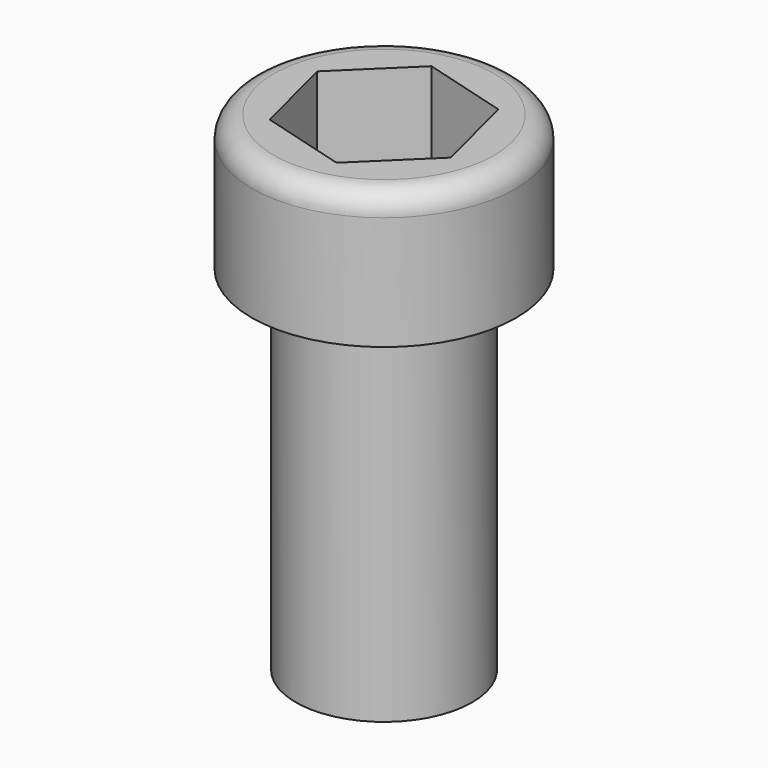
from build123d import *

# Parameters (mm, degrees)
F0_R      = 6.35
F1_DEPTH  = 25.4
F2_R      = 9.525
F3_DEPTH  = 9.8425
F4_R      = 1.5875
F6_DEPTH  = 6.35
F8_R      = 9.525
F9_DEPTH  = 9.779
F10_R     = 1.5875
F12_DEPTH = 6.35


with BuildPart() as f1:
    # F0 (on Top) → F1 (new body)
    with BuildSketch(Plane.XY):
        Circle(F0_R)
    extrude(amount=F1_DEPTH)

    # F8 (on face) → F9 (join)
    with BuildSketch(Plane.XY.offset(25.4)):
        Circle(F8_R)
    extrude(amount=F9_DEPTH)

    # F10
    f10_edges = [f1.edges().sort_by_distance(p)[0] for p in [
        (-9.525, 0, 35.179),
    ]]
    fillet(f10_edges, radius=F10_R)

    # F11 (on face) → F12 (cut)
    with BuildSketch(Plane.XY.offset(35.179)):
        Polygon((1.58678, -6.254315), (6.209785, -1.752966), (4.623006, 4.501349), (-1.58678, 6.254315), (-6.209785, 1.752966), (-4.623006, -4.501349), align=None)
    extrude(amount=-F12_DEPTH, mode=Mode.SUBTRACT)


with BuildPart() as f3:
    # F2 (on face) → F3 (new body)
    with BuildSketch(Plane.XY.offset(25.4)):
        Circle(F2_R)
    extrude(amount=F3_DEPTH)

    # F4
    f4_edges = [f3.edges().sort_by_distance(p)[0] for p in [
        (-9.525, 0, 35.2425),
    ]]
    fillet(f4_edges, radius=F4_R)

    # F5 (on face) → F6 (cut)
    with BuildSketch(Plane.XY.offset(35.2425)):
        Polygon((6.020851, -2.017882), (4.757963, 4.205269), (-1.262889, 6.223151), (-6.020851, 2.017882), (-4.757963, -4.205269), (1.262889, -6.223151), align=None)
    extrude(amount=-F6_DEPTH, mode=Mode.SUBTRACT)


solid = f1.part
